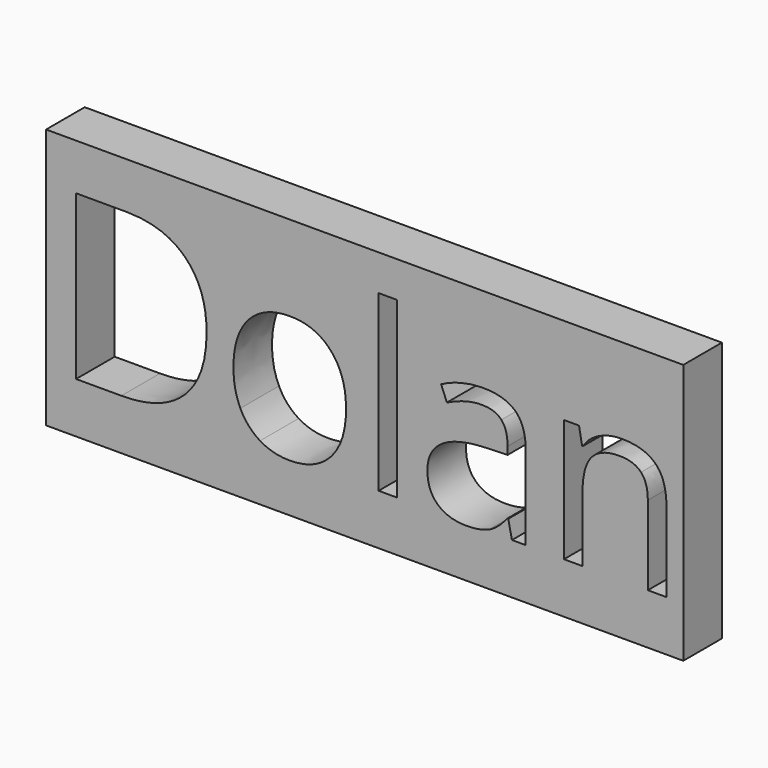
from build123d import *

# Parameters (mm, degrees)
F0_W     = 120.6359267235
F0_H     = 49.3188030086
F0_W_2   = 3.5166996237
F0_H_2   = 32.9512721967
F1_DEPTH = 9.144


with BuildPart() as f1:
    # F0 (on Front) → F1 (new body)
    with BuildSketch(Plane.XZ):
        with Locations((2.8384923935, 21.9962981064)):
            Rectangle(F0_W, F0_H)
        with BuildLine():
            add(Edge.make_bspline(
                [(-3.5570494323, 27.3089231075), (-0.687449643, 24.0666480209), (-0.687449643, 18.5442777062)],
                knots=[0, 0, 0, 1, 1, 1], degree=2))
            add(Edge.make_bspline(
                [(-0.687449643, 18.5442777062), (-0.687449643, 12.8660613581), (-3.5434976033, 9.6779935875)],
                knots=[0, 0, 0, 1, 1, 1], degree=2))
            add(Edge.make_bspline(
                [(-3.5434976033, 9.6779935875), (-6.3995455636, 6.4899258168), (-11.440825949, 6.4899258168)],
                knots=[0, 0, 0, 1, 1, 1], degree=2))
            add(Edge.make_bspline(
                [(-11.440825949, 6.4899258168), (-14.5577466175, 6.4899258168), (-16.9699721782, 7.9535233481)],
                knots=[0, 0, 0, 1, 1, 1], degree=2))
            add(Edge.make_bspline(
                [(-16.9699721782, 7.9535233481), (-19.382197739, 9.4171208793), (-20.6967251513, 12.1478144214)],
                knots=[0, 0, 0, 1, 1, 1], degree=2))
            add(Edge.make_bspline(
                [(-20.6967251513, 12.1478144214), (-22.0112525637, 14.8785079636), (-22.0112525637, 18.5442777062)],
                knots=[0, 0, 0, 1, 1, 1], degree=2))
            add(Edge.make_bspline(
                [(-22.0112525637, 18.5442777062), (-22.0112525637, 24.2157181398), (-19.1721443896, 27.3834581669)],
                knots=[0, 0, 0, 1, 1, 1], degree=2))
            add(Edge.make_bspline(
                [(-19.1721443896, 27.3834581669), (-16.3330362156, 30.5511981941), (-11.2917558301, 30.5511981941)],
                knots=[0, 0, 0, 1, 1, 1], degree=2))
            add(Edge.make_bspline(
                [(-11.2917558301, 30.5511981941), (-6.4266492216, 30.5511981941), (-3.5570494323, 27.3089231075)],
                knots=[0, 0, 0, 1, 1, 1], degree=2))
        make_face(mode=Mode.SUBTRACT)
        with BuildLine():
            Line((33.3276411297, 6.9168084301), (30.7189140485, 6.9168084301))
            Line((30.7189140485, 6.9168084301), (30.0209948554, 10.2234547044))
            Line((30.0209948554, 10.2234547044), (29.851596993, 10.2234547044))
            add(Edge.make_bspline(
                [(29.851596993, 10.2234547044), (28.1169628818, 8.0416102365), (26.3924926425, 7.2657680267)],
                knots=[0, 0, 0, 1, 1, 1], degree=2))
            add(Edge.make_bspline(
                [(26.3924926425, 7.2657680267), (24.6680224031, 6.4899258168), (22.0796230654, 6.4899258168)],
                knots=[0, 0, 0, 1, 1, 1], degree=2))
            add(Edge.make_bspline(
                [(22.0796230654, 6.4899258168), (18.6306825867, 6.4899258168), (16.6724432972, 8.2719913294)],
                knots=[0, 0, 0, 1, 1, 1], degree=2))
            add(Edge.make_bspline(
                [(16.6724432972, 8.2719913294), (14.7142040077, 10.054056842), (14.7142040077, 13.3335994583)],
                knots=[0, 0, 0, 1, 1, 1], degree=2))
            add(Edge.make_bspline(
                [(14.7142040077, 13.3335994583), (14.7142040077, 20.3602227913), (25.9554461574, 20.6990185161)],
                knots=[0, 0, 0, 1, 1, 1], degree=2))
            Line((25.9554461574, 20.6990185161), (29.8922524799, 20.8277608915))
            Line((29.8922524799, 20.8277608915), (29.8922524799, 22.2710306793))
            add(Edge.make_bspline(
                [(29.8922524799, 22.2710306793), (29.8922524799, 25.0017242214), (28.720019272, 26.3026998047)],
                knots=[0, 0, 0, 1, 1, 1], degree=2))
            add(Edge.make_bspline(
                [(28.720019272, 26.3026998047), (27.5477860641, 27.6036753881), (24.9593867264, 27.6036753881)],
                knots=[0, 0, 0, 1, 1, 1], degree=2))
            add(Edge.make_bspline(
                [(24.9593867264, 27.6036753881), (22.0592953219, 27.6036753881), (18.4003014938, 25.82838579)],
                knots=[0, 0, 0, 1, 1, 1], degree=2))
            Line((18.4003014938, 25.82838579), (17.3161551743, 28.5184238451))
            add(Edge.make_bspline(
                [(17.3161551743, 28.5184238451), (19.030461542, 29.4467241311), (21.0733997627, 29.9752454619)],
                knots=[0, 0, 0, 1, 1, 1], degree=2))
            add(Edge.make_bspline(
                [(21.0733997627, 29.9752454619), (23.1163379834, 30.5037667926), (25.1762159903, 30.5037667926)],
                knots=[0, 0, 0, 1, 1, 1], degree=2))
            add(Edge.make_bspline(
                [(25.1762159903, 30.5037667926), (29.3230756622, 30.5037667926), (31.325358396, 28.6641060068)],
                knots=[0, 0, 0, 1, 1, 1], degree=2))
            add(Edge.make_bspline(
                [(31.325358396, 28.6641060068), (33.3276411297, 26.824445221), (33.3276411297, 22.7588965231)],
                knots=[0, 0, 0, 1, 1, 1], degree=2))
            Line((33.3276411297, 22.7588965231), (33.3276411297, 6.9168084301))
        make_face(mode=Mode.SUBTRACT)
        with BuildLine():
            Line((59.9637610157, 6.9168084301), (56.4470613919, 6.9168084301))
            Line((56.4470613919, 6.9168084301), (56.4470613919, 21.9322349545))
            add(Edge.make_bspline(
                [(56.4470613919, 21.9322349545), (56.4470613919, 24.764567214), (55.1562496803, 26.1637935576)],
                knots=[0, 0, 0, 1, 1, 1], degree=2))
            add(Edge.make_bspline(
                [(55.1562496803, 26.1637935576), (53.8654379688, 27.5630199011), (51.1076407687, 27.5630199011)],
                knots=[0, 0, 0, 1, 1, 1], degree=2))
            add(Edge.make_bspline(
                [(51.1076407687, 27.5630199011), (47.468974684, 27.5630199011), (45.7749960599, 25.5946167399)],
                knots=[0, 0, 0, 1, 1, 1], degree=2))
            add(Edge.make_bspline(
                [(45.7749960599, 25.5946167399), (44.0810174357, 23.6262135786), (44.0810174357, 19.0931267804)],
                knots=[0, 0, 0, 1, 1, 1], degree=2))
            Line((44.0810174357, 19.0931267804), (44.0810174357, 6.9168084301))
            Line((44.0810174357, 6.9168084301), (40.564317812, 6.9168084301))
            Line((40.564317812, 6.9168084301), (40.564317812, 30.1243155808))
            Line((40.564317812, 30.1243155808), (43.4237537296, 30.1243155808))
            Line((43.4237537296, 30.1243155808), (43.9929305473, 26.9464116819))
            Line((43.9929305473, 26.9464116819), (44.1623284097, 26.9464116819))
            add(Edge.make_bspline(
                [(44.1623284097, 26.9464116819), (45.2464747291, 28.6607180495), (47.1945501469, 29.6059581218)],
                knots=[0, 0, 0, 1, 1, 1], degree=2))
            add(Edge.make_bspline(
                [(47.1945501469, 29.6059581218), (49.1426255647, 30.5511981941), (51.5345233819, 30.5511981941)],
                knots=[0, 0, 0, 1, 1, 1], degree=2))
            add(Edge.make_bspline(
                [(51.5345233819, 30.5511981941), (55.7288144553, 30.5511981941), (57.8462877355, 28.5285877169)],
                knots=[0, 0, 0, 1, 1, 1], degree=2))
            add(Edge.make_bspline(
                [(57.8462877355, 28.5285877169), (59.9637610157, 26.5059772396), (59.9637610157, 22.0542014154)],
                knots=[0, 0, 0, 1, 1, 1], degree=2))
            Line((59.9637610157, 22.0542014154), (59.9637610157, 6.9168084301))
        make_face(mode=Mode.SUBTRACT)
        with BuildLine():
            add(Edge.make_bspline(
                [(-31.0943659463, 33.8747842546), (-27.0931884361, 29.8736067444), (-27.0931884361, 22.6911373781)],
                knots=[0, 0, 0, 1, 1, 1], degree=2))
            add(Edge.make_bspline(
                [(-27.0931884361, 22.6911373781), (-27.0931884361, 15.0275780825), (-31.253599937, 10.9721932563)],
                knots=[0, 0, 0, 1, 1, 1], degree=2))
            add(Edge.make_bspline(
                [(-31.253599937, 10.9721932563), (-35.4140114379, 6.9168084301), (-43.2266408524, 6.9168084301)],
                knots=[0, 0, 0, 1, 1, 1], degree=2))
            Line((-43.2266408524, 6.9168084301), (-51.804948605, 6.9168084301))
            Line((-51.804948605, 6.9168084301), (-51.804948605, 37.8759617649))
            Line((-51.804948605, 37.8759617649), (-42.3186683098, 37.8759617649))
            add(Edge.make_bspline(
                [(-42.3186683098, 37.8759617649), (-35.0955434565, 37.8759617649), (-31.0943659463, 33.8747842546)],
                knots=[0, 0, 0, 1, 1, 1], degree=2))
        make_face(mode=Mode.SUBTRACT)
        with Locations((7.2369823607, 23.3924445285)):
            Rectangle(F0_W_2, F0_H_2, mode=Mode.SUBTRACT)
    extrude(amount=F1_DEPTH)


solid = f1.part
